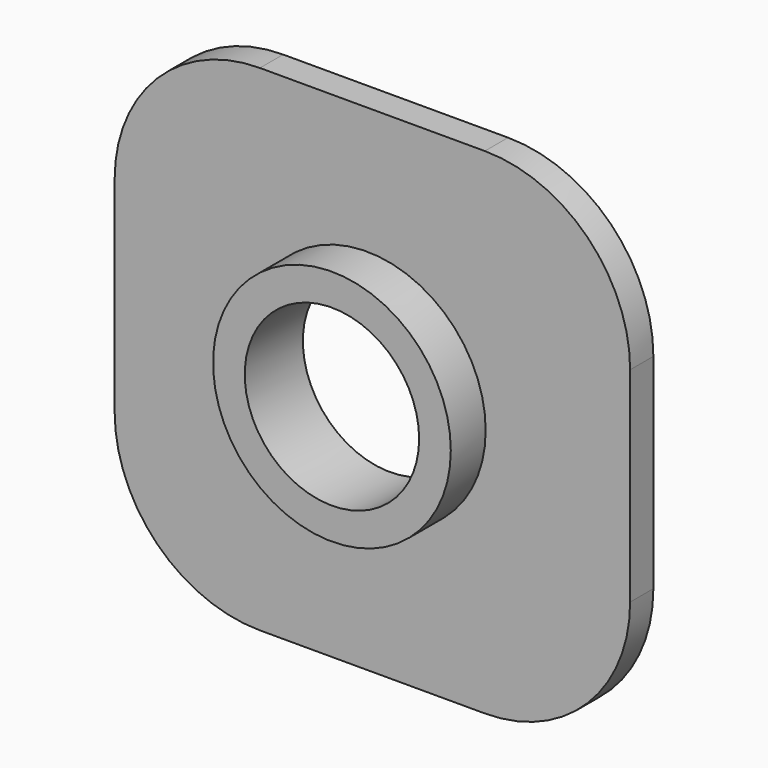
from build123d import *

# Parameters (mm, degrees)
F0_W     = 177.386477
F0_H     = 170.372837
F0_R     = 30.003489
F1_DEPTH = 10
F2_R     = 40.90349
F2_R_2   = 30.003489
F3_DEPTH = 15
F4_R     = 50
F5_R     = 50


with BuildPart() as f1:
    # F0 (on Front) → F1 (new body)
    with BuildSketch(Plane.XZ):
        with Locations((1.913748, -0.651795)):
            Rectangle(F0_W, F0_H)
        Circle(F0_R, mode=Mode.SUBTRACT)
    extrude(amount=F1_DEPTH)

    # F2 (on face) → F3 (join)
    with BuildSketch(Plane.XZ.offset(10)):
        Circle(F2_R)
        Circle(F2_R_2, mode=Mode.SUBTRACT)
    extrude(amount=F3_DEPTH)

    # F4
    f4_edges = [f1.edges().sort_by_distance(p)[0] for p in [
        (-86.77949, -5, 84.534623),
    ]]
    fillet(f4_edges, radius=F4_R)

    # F5
    f5_edges = [f1.edges().sort_by_distance(p)[0] for p in [
        (-86.77949, -5, -85.838214),
        (90.606987, -5, -85.838214),
        (90.606987, -5, 84.534623),
    ]]
    fillet(f5_edges, radius=F5_R)


solid = f1.part
